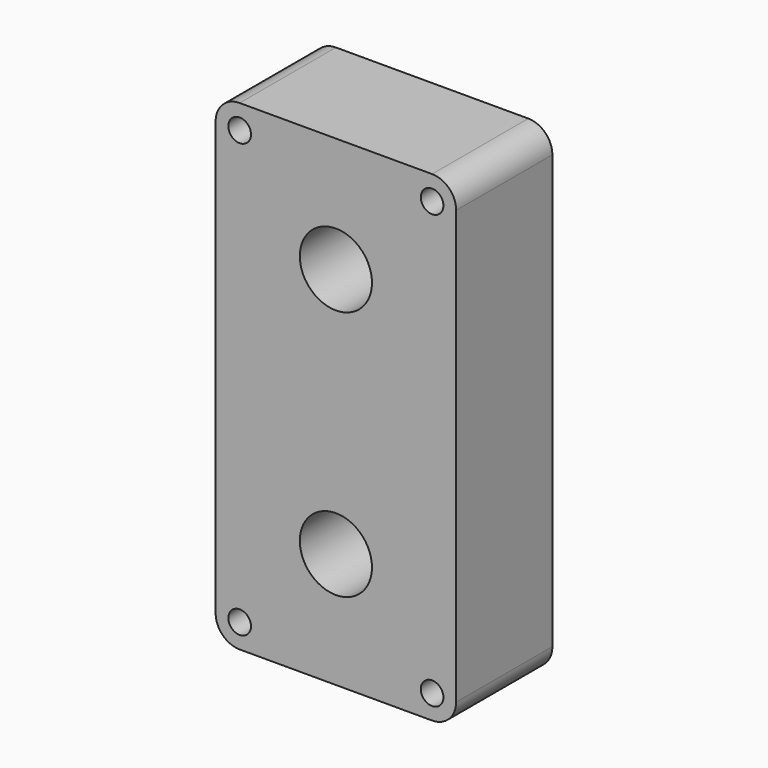
from build123d import *

# Parameters (mm, degrees)
F0_W     = 50.8
F0_H     = 101.6
F0_R     = 7.62
F1_DEPTH = 12.7
F2_R     = 5.08
F3_R     = 2.39168
F4_DEPTH = 72.39


with BuildPart() as f1:
    # F0 (on Front) → F1 (new body, symmetric)
    with BuildSketch(Plane.XZ):
        Rectangle(F0_W, F0_H)
        with Locations((0, -26.461581)):
            Circle(F0_R, mode=Mode.SUBTRACT)
        with Locations((0, 26.461581)):
            Circle(F0_R, mode=Mode.SUBTRACT)
    extrude(amount=F1_DEPTH, both=True)

    # F2
    f2_edges = [f1.edges().sort_by_distance(p)[0] for p in [
        (-25.4, 0, 50.8),
        (25.4, 0, 50.8),
        (25.4, 0, -50.8),
        (-25.4, 0, -50.8),
    ]]
    fillet(f2_edges, radius=F2_R)

    # F3 (on face) → F4 (cut, symmetric)
    with BuildSketch(Plane.XZ.offset(12.7)):
        with Locations((-20.32, 45.72)):
            Circle(F3_R)
        with Locations((20.32, 45.72)):
            Circle(F3_R)
        with Locations((20.32, -45.72)):
            Circle(F3_R)
        with Locations((-20.32, -45.72)):
            Circle(F3_R)
    extrude(amount=F4_DEPTH, both=True, mode=Mode.SUBTRACT)


solid = f1.part
